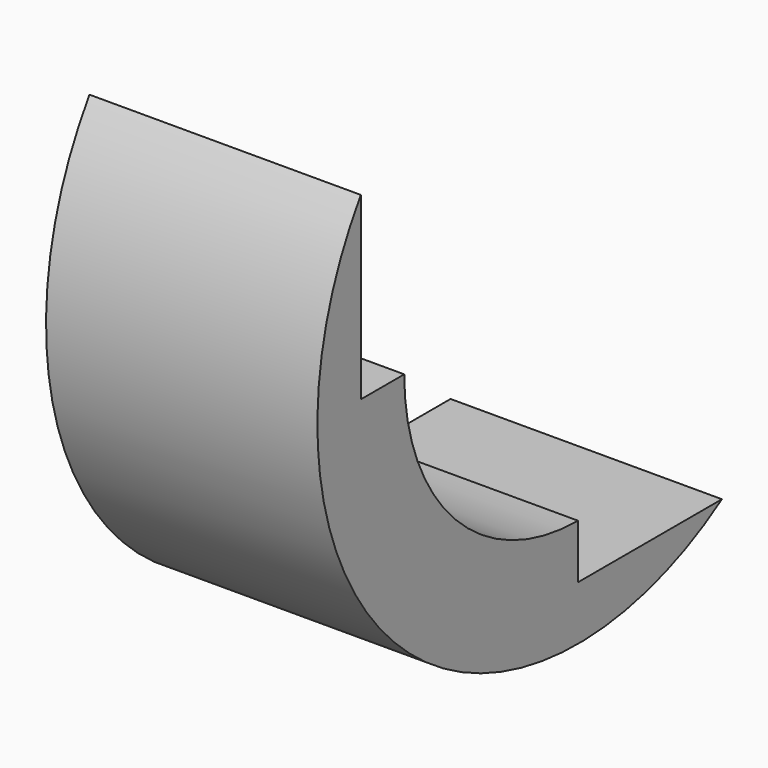
from build123d import *

# Parameters (mm, degrees)
BOX004_W      = 5
BOX004_H      = 10
BOX004_DEPTH  = 8
BOX003_W      = 5
BOX003_H      = 8
BOX003_DEPTH  = 10
TUBE001_R     = 6
TUBE001_R_2   = 4
TUBE001_DEPTH = 5


with BuildPart() as cube004:
    # Box004 → Box004 (new body)
    with BuildSketch(Plane(origin=(0, -2, 3), x_dir=(1, 0, 0), z_dir=(0, 0, 1))):
        with Locations((2.5, 5)):
            Rectangle(BOX004_W, BOX004_H)
    extrude(amount=BOX004_DEPTH)


with BuildPart() as cube003:
    # Box003 → Box003 (new body)
    with BuildSketch(Plane(origin=(0, 3, -2), x_dir=(1, 0, 0), z_dir=(0, 0, 1))):
        with Locations((2.5, 4)):
            Rectangle(BOX003_W, BOX003_H)
    extrude(amount=BOX003_DEPTH)


with BuildPart() as cut003:
    # Tube001 → Tube001 (new body)
    with BuildSketch(Plane(origin=(0, 3, 3), x_dir=(0, 0, -1), z_dir=(1, 0, 0))):
        Circle(TUBE001_R)
        Circle(TUBE001_R_2, mode=Mode.SUBTRACT)
    extrude(amount=TUBE001_DEPTH)

    # Cut002: cut Cube003
    add(cube003.part, mode=Mode.SUBTRACT)

    # Cut003: cut Cube004
    add(cube004.part, mode=Mode.SUBTRACT)


solid = cut003.part
